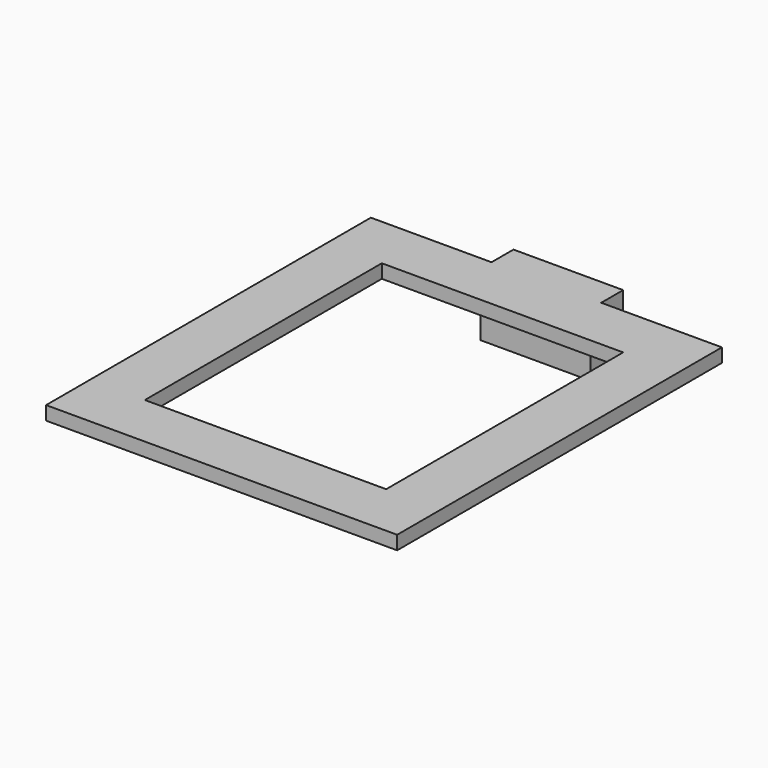
from build123d import *

# Parameters (mm, degrees)
F3_W     = 128
F3_H     = 148
F3_W_2   = 88
F3_H_2   = 108
F4_DEPTH = 5
F5_W     = 40
F5_H     = 5
F6_DEPTH = 10
F7_W     = 40
F7_H     = 10
F8_DEPTH = 18
F9_DEPTH = 5


with BuildPart() as f4:
    # F3 (on Top) → F4 (new body)
    with BuildSketch(Plane.XY):
        Rectangle(F3_W, F3_H)
        Rectangle(F3_W_2, F3_H_2, mode=Mode.SUBTRACT)
    extrude(amount=F4_DEPTH)

    # F5 (on face) → F6 (join)
    with BuildSketch(Plane(origin=(0, 74, 0), x_dir=(-1, 0, 0), z_dir=(0, 1, 0))):
        with Locations((0, 2.5)):
            Rectangle(F5_W, F5_H)
    extrude(amount=F6_DEPTH)

    # F7 (on face) → F8 (join)
    with BuildSketch(Plane(origin=(0, 0, 0), x_dir=(1, 0, 0), z_dir=(0, 0, -1))):
        with Locations((0, -79)):
            Rectangle(F7_W, F7_H)
    extrude(amount=F8_DEPTH)

    # F9 (add): a face of the model
    f9_faces = [f4.faces().sort_by_distance(p)[0] for p in [
        (0, 74, -9),
    ]]
    extrude(f9_faces, amount=F9_DEPTH)


solid = f4.part
